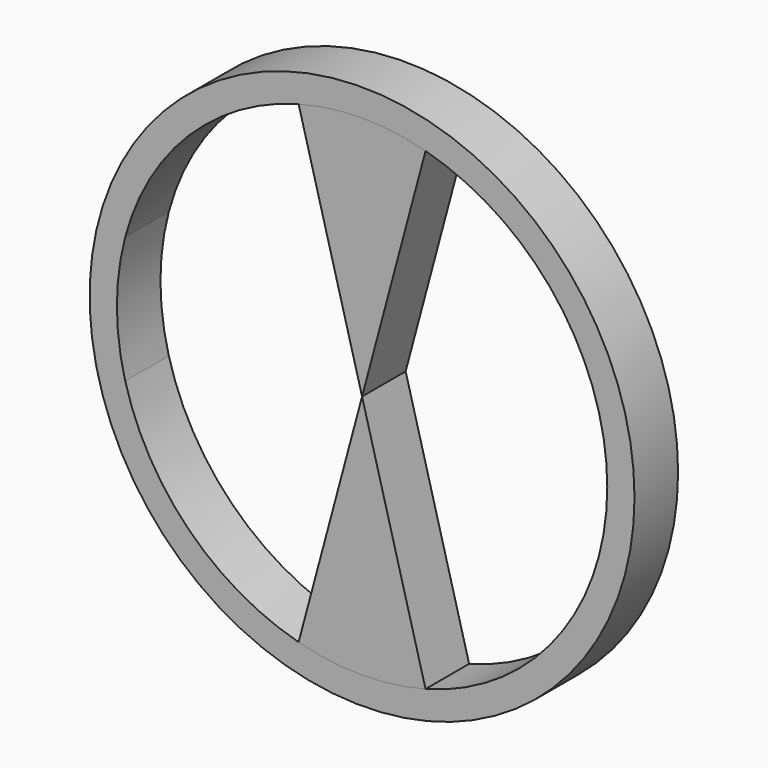
from build123d import *

# Parameters (mm, degrees)
F0_R     = 31.75
F1_DEPTH = 6.35
F3_DEPTH = 6.35


with BuildPart() as f1:
    # F0 (on Front) → F1 (new body)
    with BuildSketch(Plane.XZ):
        Circle(F0_R)
        with BuildLine():
            ThreePointArc((27.602497, 7.3914), (28.330831, 3.727551), (28.575, 0))
            ThreePointArc((28.575, 0), (28.330243, -3.732021), (27.600163, -7.400108))
            ThreePointArc((27.600163, -7.400108), (20.202389, -20.208763), (7.3914, -27.602497))
            ThreePointArc((7.3914, -27.602497), (-0.004508, -28.575), (-7.400108, -27.600163))
            ThreePointArc((-7.400108, -27.600163), (-20.208763, -20.202389), (-27.602497, -7.3914))
            ThreePointArc((-27.602497, -7.3914), (-28.575, 0.004508), (-27.600163, 7.400108))
            ThreePointArc((-27.600163, 7.400108), (-20.202389, 20.208763), (-7.3914, 27.602497))
            ThreePointArc((-7.3914, 27.602497), (0.004508, 28.575), (7.400108, 27.600163))
            ThreePointArc((7.400108, 27.600163), (20.208763, 20.202389), (27.602497, 7.3914))
        make_face(mode=Mode.SUBTRACT)
    extrude(amount=F1_DEPTH)


with BuildPart() as f3:
    # F2 (on Front) → F3 (new body)
    with BuildSketch(Plane.XZ):
        with BuildLine():
            Line((-7.395754, 27.60133), (0, 0))
            Line((0, 0), (7.395754, 27.60133))
            ThreePointArc((7.395754, 27.60133), (0, 28.575), (-7.395754, 27.60133))
        make_face()
        with BuildLine():
            Line((7.395754, -27.60133), (0, 0))
            Line((0, 0), (-7.395754, -27.60133))
            ThreePointArc((-7.395754, -27.60133), (0, -28.575), (7.395754, -27.60133))
        make_face()
    extrude(amount=F3_DEPTH)


solid = Compound([f1.part, f3.part])
